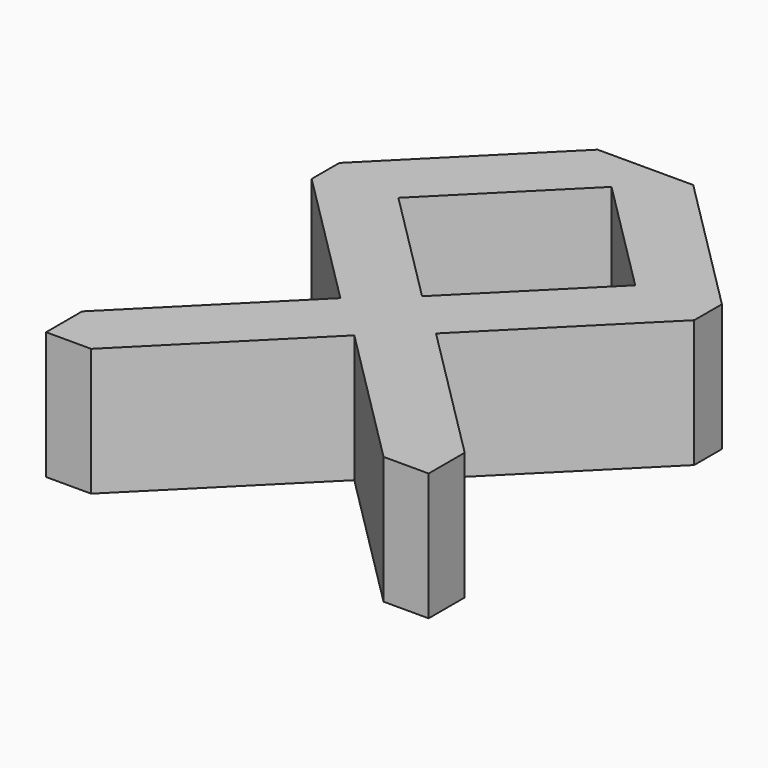
from build123d import *

# Parameters (mm, degrees)
F1_DEPTH = 8


with BuildPart() as f1:
    # F0 (on Top) → F1 (new body)
    with BuildSketch(Plane.XY):
        Polygon((15, 0), (9, 0), (0, -9), (0, -11.171573), (9, -20.171573), (0, -29.171573), (0, -32), (2.828427, -32), (12, -22.828427), (21.171573, -32), (24, -32), (24, -29.171573), (15, -20.171573), (24, -11.171573), (24, -9), align=None)
        Polygon((19.428932, -10.085786), (12, -17.514719), (4.571068, -10.085786), (12, -2.656854), align=None, mode=Mode.SUBTRACT)
    extrude(amount=F1_DEPTH)


solid = f1.part
